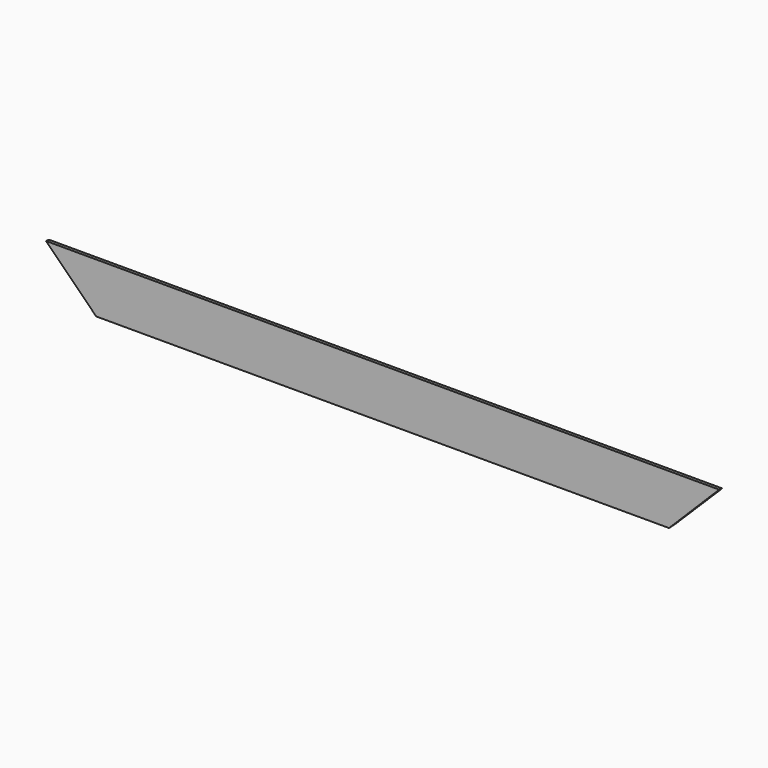
from build123d import *

# Parameters (mm, degrees)
EXTRUDE039434_DEPTH = 500


with BuildPart() as extrude039434_internal_superior:
    # Sketch223 (on Sketch) → Extrude039434 (new body, symmetric)
    with BuildSketch(Plane.XZ):
        Polygon((-600, 2300), (600, 2300), (200, 1900), (-200, 1900), align=None)
    extrude(amount=EXTRUDE039434_DEPTH, both=True)


with BuildPart() as internal_trim_horizontal:
    # Sweep012: sweep along a path in Sketch195
    with BuildLine(Plane.XZ) as sweep012_path:
        Line((-400, 2100), (-400, 0))
        Line((-400, 0), (400, 0))
        Line((400, 0), (400, 2100))
        Line((400, 2100), (-400, 2100))
    # Clone2D028 (on Sketch) → Sweep012 (sweep)
    with BuildSketch(Plane.ZY):
        with BuildLine():
            Line((-61.571224, 10), (-5.678418, 7))
            ThreePointArc((-5.678418, 7), (-1.645147, 5.136003), (0, 1.008624))
            Line((0, 1.008624), (0, 0))
            Line((0, 0), (-70, 0))
            Line((-70, 0), (-70, 2.011499))
            ThreePointArc((-70, 2.011499), (-67.503171, 7.81797), (-61.571224, 10))
        make_face()
    sweep(path=sweep012_path.line, is_frenet=True, transition=Transition.RIGHT)

    # Common001: intersect Extrude039434_Internal_superior_
    add(extrude039434_internal_superior.part, mode=Mode.INTERSECT)


solid = internal_trim_horizontal.part
